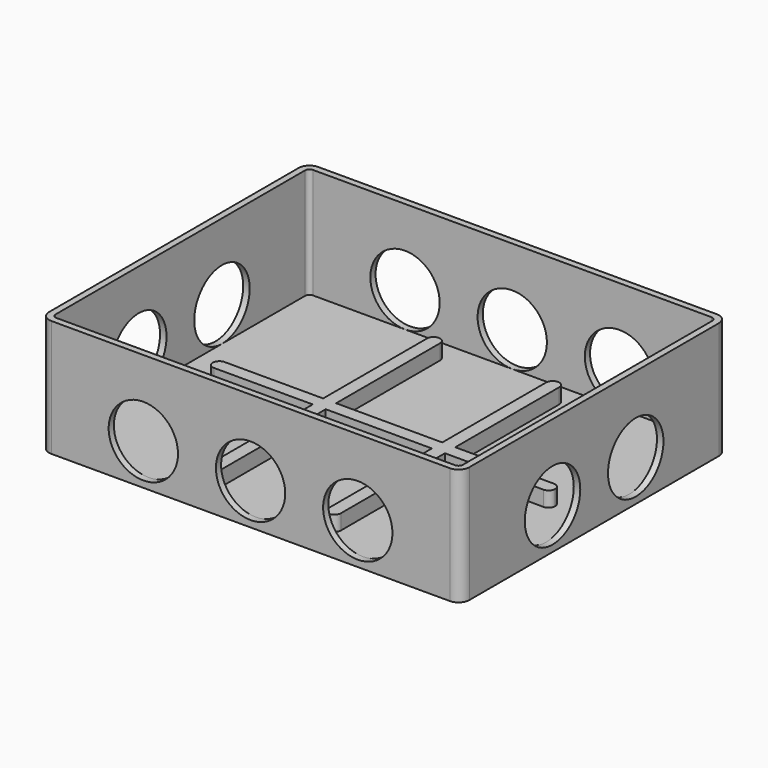
from build123d import *

# Parameters (mm, degrees)
F1_DEPTH = 54
F2_T     = -3
F3_R     = 16
F4_DEPTH = 154.001
F5_R     = 16
F6_DEPTH = 194.001
F7_W     = 6
F7_H     = 6
F7_W_2   = 49
F8_DEPTH = 7


with BuildPart() as f1:
    # F0 (on Top) → F1 (new body)
    with BuildSketch(Plane.XY):
        with BuildLine():
            ThreePointArc((97, 72), (95.5355339059, 75.5355339059), (92, 77))
            Line((92, 77), (-92, 77))
            ThreePointArc((-92, 77), (-95.5355339059, 75.5355339059), (-97, 72))
            Line((-97, 72), (-97, -72))
            ThreePointArc((-97, -72), (-95.5355339059, -75.5355339059), (-92, -77))
            Line((-92, -77), (92, -77))
            ThreePointArc((92, -77), (95.5355339059, -75.5355339059), (97, -72))
            Line((97, -72), (97, 72))
        make_face()
    extrude(amount=F1_DEPTH)

    # F2
    f2_openings = [f1.faces().sort_by_distance(p)[0] for p in [
        (0, 0, 54),
    ]]
    offset(amount=F2_T, openings=f2_openings)

    # F3 (on face) → F4 (cut, through all)
    with BuildSketch(Plane.XZ.offset(77)):
        with Locations((-49.5, 19)):
            Circle(F3_R)
        with Locations((0, 19)):
            Circle(F3_R)
        with Locations((49.5, 19)):
            Circle(F3_R)
    extrude(amount=-F4_DEPTH, mode=Mode.SUBTRACT)

    # F5 (on face) → F6 (cut, through all)
    with BuildSketch(Plane.YZ.offset(97)):
        with Locations((-24, 19)):
            Circle(F5_R)
        with Locations((24, 19)):
            Circle(F5_R)
    extrude(amount=-F6_DEPTH, mode=Mode.SUBTRACT)

    # F7 (on face) → F8 (join)
    with BuildSketch(Plane.XY.offset(3)):
        with BuildLine():
            ThreePointArc((-30.5, 62.9770308733), (-27.5, 59.9770308733), (-24.5, 62.9770308733))
            ThreePointArc((-24.5, 62.9770308733), (-27.5, 65.9770308733), (-30.5, 62.9770308733))
        make_face()
        with BuildLine():
            Line((-24.5, 3), (-24.5, 62.9770308733))
            ThreePointArc((-24.5, 62.9770308733), (-27.5, 59.9770308733), (-30.5, 62.9770308733))
            Line((-30.5, 62.9770308733), (-30.5, 3))
            Line((-30.5, 3), (-24.5, 3))
        make_face()
        with Locations((-27.5, 0)):
            Rectangle(F7_W, F7_H)
        Rectangle(F7_W_2, F7_H)
        with BuildLine():
            Line((-30.5, -3), (-30.5, 3))
            Line((-30.5, 3), (-75.992539525, 3))
            ThreePointArc((-75.992539525, 3), (-73.8712191815, 2.1213203436), (-72.992539525, 0))
            ThreePointArc((-72.992539525, 0), (-73.8712191815, -2.1213203436), (-75.992539525, -3))
            Line((-75.992539525, -3), (-30.5, -3))
        make_face()
        with Locations((27.5, 0)):
            Rectangle(F7_W, F7_H)
        with BuildLine():
            Line((24.5, 62.9770308733), (24.5, 3))
            Line((24.5, 3), (30.5, 3))
            Line((30.5, 3), (30.5, 62.9770308733))
            ThreePointArc((30.5, 62.9770308733), (27.5, 59.9770308733), (24.5, 62.9770308733))
        make_face()
        with BuildLine():
            Line((-24.5, -62.9770308733), (-24.5, -3))
            Line((-24.5, -3), (-30.5, -3))
            Line((-30.5, -3), (-30.5, -62.9770308733))
            ThreePointArc((-30.5, -62.9770308733), (-27.5, -59.9770308733), (-24.5, -62.9770308733))
        make_face()
        with BuildLine():
            ThreePointArc((-72.992539525, 0), (-73.8712191815, 2.1213203436), (-75.992539525, 3))
            ThreePointArc((-75.992539525, 3), (-78.992539525, 0), (-75.992539525, -3))
            ThreePointArc((-75.992539525, -3), (-73.8712191815, -2.1213203436), (-72.992539525, 0))
        make_face()
        with BuildLine():
            Line((30.5, -3), (24.5, -3))
            Line((24.5, -3), (24.5, -62.9770308733))
            ThreePointArc((24.5, -62.9770308733), (27.5, -59.9770308733), (30.5, -62.9770308733))
            Line((30.5, -62.9770308733), (30.5, -3))
        make_face()
        with BuildLine():
            ThreePointArc((30.5, 62.9770308733), (27.5, 65.9770308733), (24.5, 62.9770308733))
            ThreePointArc((24.5, 62.9770308733), (27.5, 59.9770308733), (30.5, 62.9770308733))
        make_face()
        with BuildLine():
            Line((75.992539525, 3), (30.5, 3))
            Line((30.5, 3), (30.5, -3))
            Line((30.5, -3), (75.992539525, -3))
            ThreePointArc((75.992539525, -3), (72.992539525, 0), (75.992539525, 3))
        make_face()
        with BuildLine():
            ThreePointArc((-30.5, -62.9770308733), (-27.5, -65.9770308733), (-24.5, -62.9770308733))
            ThreePointArc((-24.5, -62.9770308733), (-27.5, -59.9770308733), (-30.5, -62.9770308733))
        make_face()
        with BuildLine():
            ThreePointArc((30.5, -62.9770308733), (27.5, -59.9770308733), (24.5, -62.9770308733))
            ThreePointArc((24.5, -62.9770308733), (27.5, -65.9770308733), (30.5, -62.9770308733))
        make_face()
        with BuildLine():
            ThreePointArc((78.992539525, 0), (78.1138598686, 2.1213203436), (75.992539525, 3))
            ThreePointArc((75.992539525, 3), (72.992539525, 0), (75.992539525, -3))
            ThreePointArc((75.992539525, -3), (78.1138598686, -2.1213203436), (78.992539525, 0))
        make_face()
    extrude(amount=F8_DEPTH)


solid = f1.part
